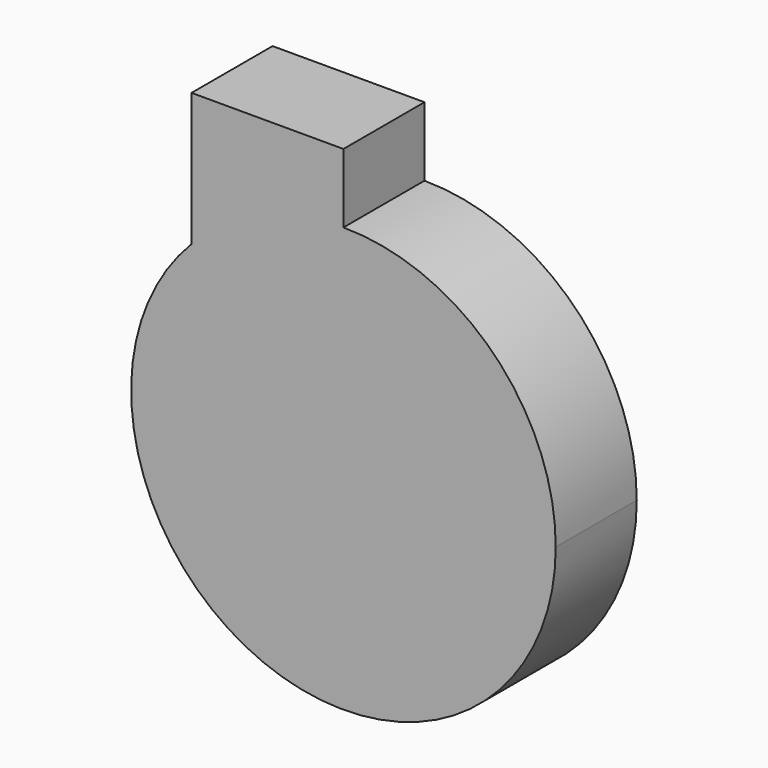
from build123d import *

# Parameters (mm, degrees)
F1_DEPTH = 20


with BuildPart() as f1:
    # F0 (on Front) → F1 (new body)
    with BuildSketch(Plane.XZ):
        with BuildLine():
            ThreePointArc((-30, 29.286612), (-15.810687, -38.829471), (41.925, 0))
            ThreePointArc((41.925, 0), (29.645452, 29.645452), (0, 41.925))
            Line((0, 41.925), (0, 0))
            Line((0, 0), (-30, 0))
            Line((-30, 0), (-30, 29.286612))
        make_face()
        with BuildLine():
            Line((0, 0), (0, 41.925))
            ThreePointArc((0, 41.925), (-16.276738, 38.636426), (-30, 29.286612))
            Line((-30, 29.286612), (-30, 0))
            Line((-30, 0), (0, 0))
        make_face()
        with BuildLine():
            ThreePointArc((-30, 29.286612), (-16.276738, 38.636426), (0, 41.925))
            Line((0, 41.925), (0, 55.575))
            Line((0, 55.575), (-30, 55.575))
            Line((-30, 55.575), (-30, 29.286612))
        make_face()
    extrude(amount=F1_DEPTH)


solid = f1.part
